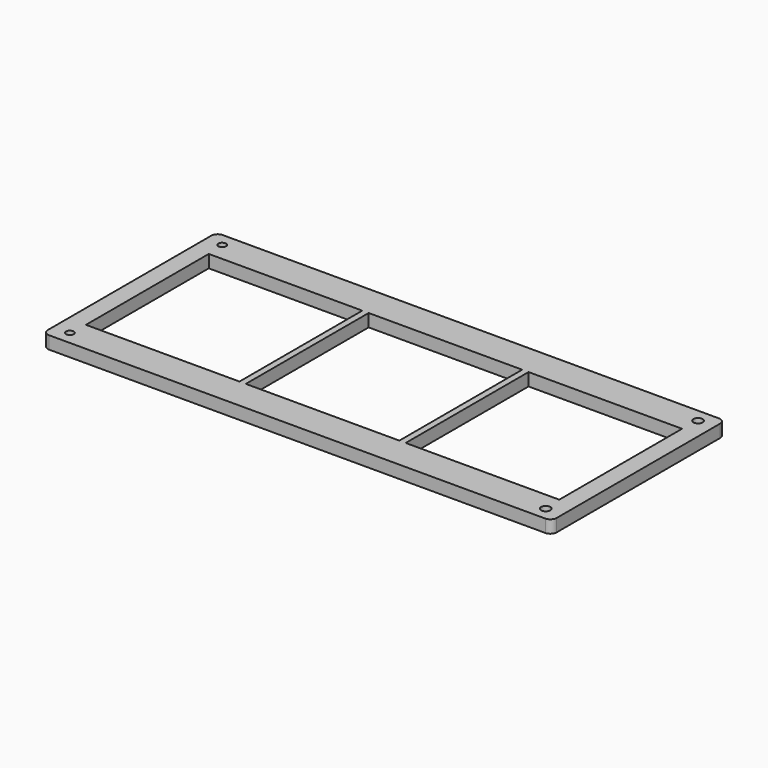
from build123d import *

# Parameters (mm, degrees)
F0_W     = 401
F0_H     = 171
F0_R     = 3
F0_R_2   = 3.627457
F0_W_2   = 121
F0_H_2   = 121
F1_DEPTH = 10
F2_R     = 5


with BuildPart() as f1:
    # F0 (on Top) → F1 (new body)
    with BuildSketch(Plane.XY):
        with Locations((60.5, -60.5)):
            Rectangle(F0_W, F0_H)
        with Locations((-127, -135.5)):
            Circle(F0_R, mode=Mode.SUBTRACT)
        with Locations((248, -135.5)):
            Circle(F0_R_2, mode=Mode.SUBTRACT)
        with Locations((-65.5, -60.5)):
            Rectangle(F0_W_2, F0_H_2, mode=Mode.SUBTRACT)
        with Locations((-127, 14.5)):
            Circle(F0_R, mode=Mode.SUBTRACT)
        with Locations((60.5, -60.5)):
            Rectangle(F0_W_2, F0_H_2, mode=Mode.SUBTRACT)
        with Locations((186.5, -60.5)):
            Rectangle(F0_W_2, F0_H_2, mode=Mode.SUBTRACT)
        with Locations((248, 14.5)):
            Circle(F0_R_2, mode=Mode.SUBTRACT)
    extrude(amount=F1_DEPTH)

    # F2
    f2_edges = [f1.edges().sort_by_distance(p)[0] for p in [
        (261, 25, 5),
        (261, -146, 5),
        (-140, -146, 5),
        (-140, 25, 5),
    ]]
    fillet(f2_edges, radius=F2_R)


solid = f1.part
